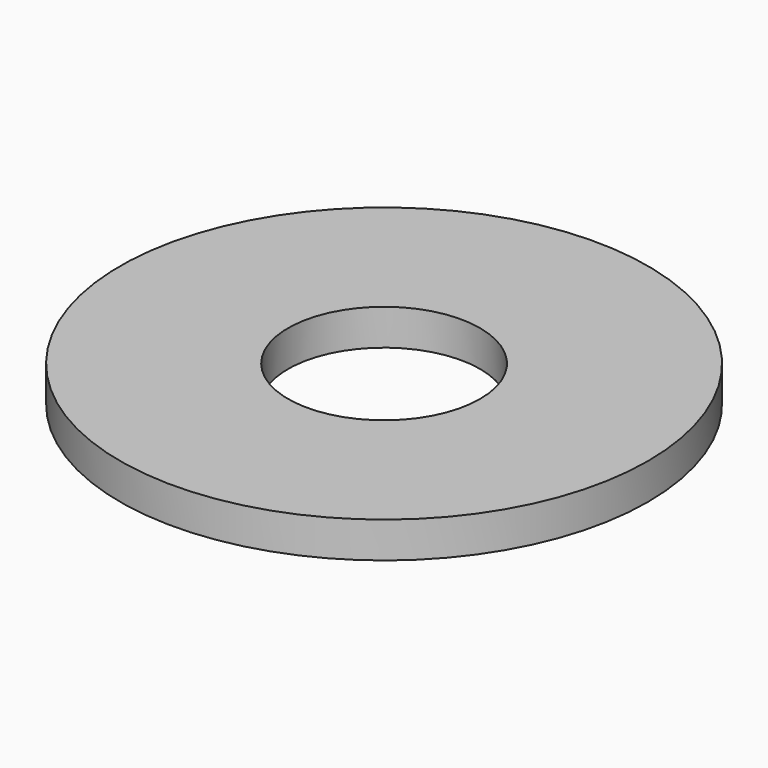
from build123d import *

# Parameters (mm, degrees)
F0_R     = 11
F1_DEPTH = 1.5
F2_R     = 4
F3_DEPTH = 25


with BuildPart() as f1:
    # F0 (on Top) → F1 (new body)
    with BuildSketch(Plane.XY):
        with Locations((-33.321586, 31.793948)):
            Circle(F0_R)
    extrude(amount=F1_DEPTH)

    # F2 (on face) → F3 (cut)
    with BuildSketch(Plane.XY.offset(1.5)):
        with Locations((-33.321586, 31.793948)):
            Circle(F2_R)
    extrude(amount=-F3_DEPTH, mode=Mode.SUBTRACT)


with BuildPart() as f1_1:
    # F4: moved
    add(f1.part.moved(Location((22.4, -20.8, 0))))


solid = f1_1.part
